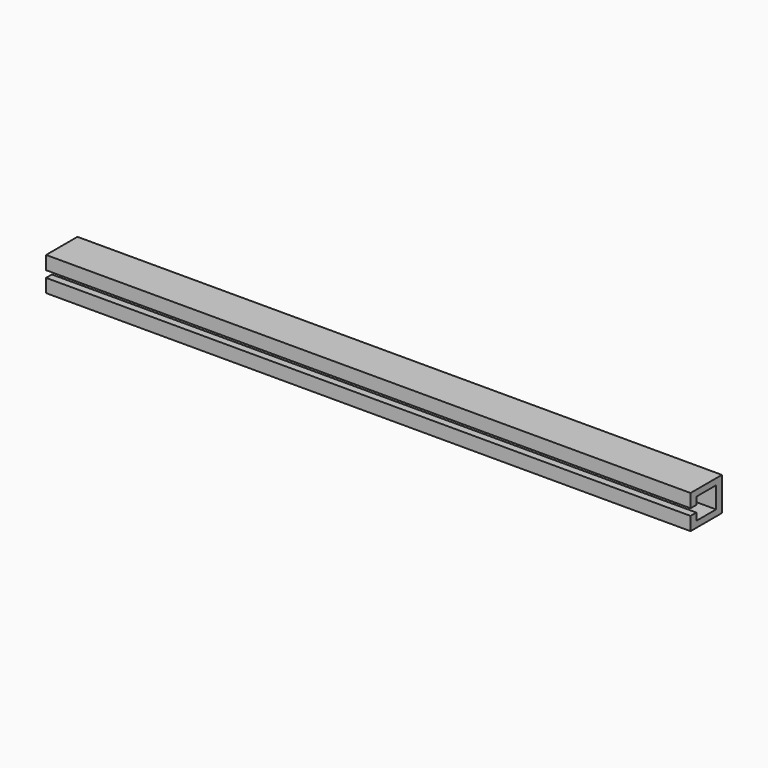
from build123d import *

# Parameters (mm, degrees)
PAD_DEPTH = 575


with BuildPart() as part:
    # Sketch → Pad (new body)
    with BuildSketch(Plane.YZ):
        Polygon((0, 0), (35, 0), (35, 30), (0, 30), (0, 18), (6.5, 18), (6.5, 24.5), (28.5, 24.5), (28.5, 5.5), (6.5, 5.5), (6.5, 12), (0, 12), align=None)
    extrude(amount=PAD_DEPTH)


solid = part.part
